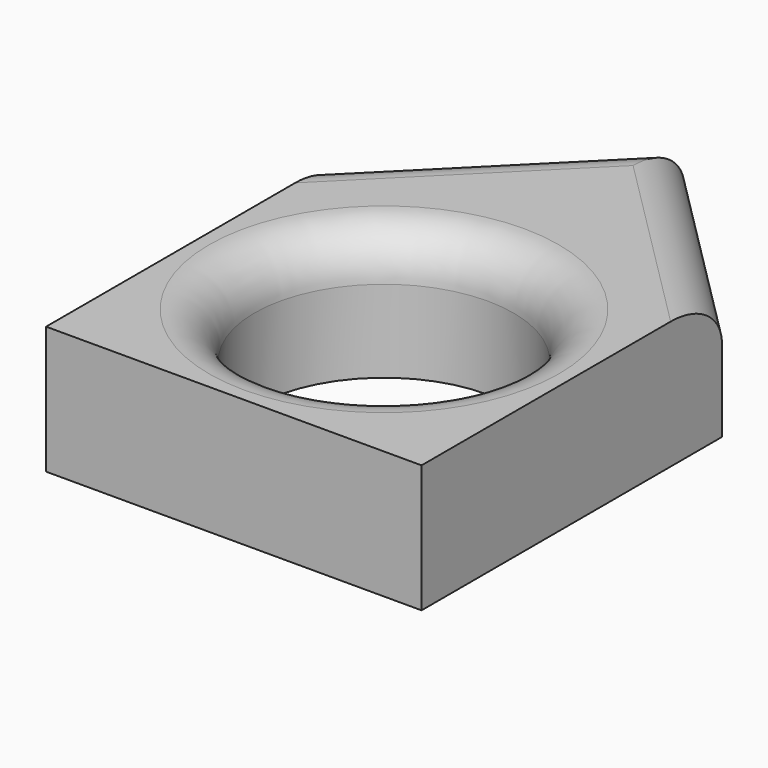
from build123d import *

# Parameters (mm, degrees)
F0_W     = 100
F0_H     = 100
F0_R     = 34.5
F1_DEPTH = 34
F2_R     = 12.071068


with BuildPart() as f1:
    # F0 (on Top) → F1 (new body)
    with BuildSketch(Plane.XY):
        Rectangle(F0_W, F0_H)
        Circle(F0_R, mode=Mode.SUBTRACT)
        Polygon((0, 100), (-50, 50), (50, 50), align=None)
    extrude(amount=F1_DEPTH)

    # F2
    f2_edges = [f1.edges().sort_by_distance(p)[0] for p in [
        (-34.5, 0, 34),
        (25, 75, 34),
        (-25, 75, 34),
    ]]
    fillet(f2_edges, radius=F2_R)


solid = f1.part
